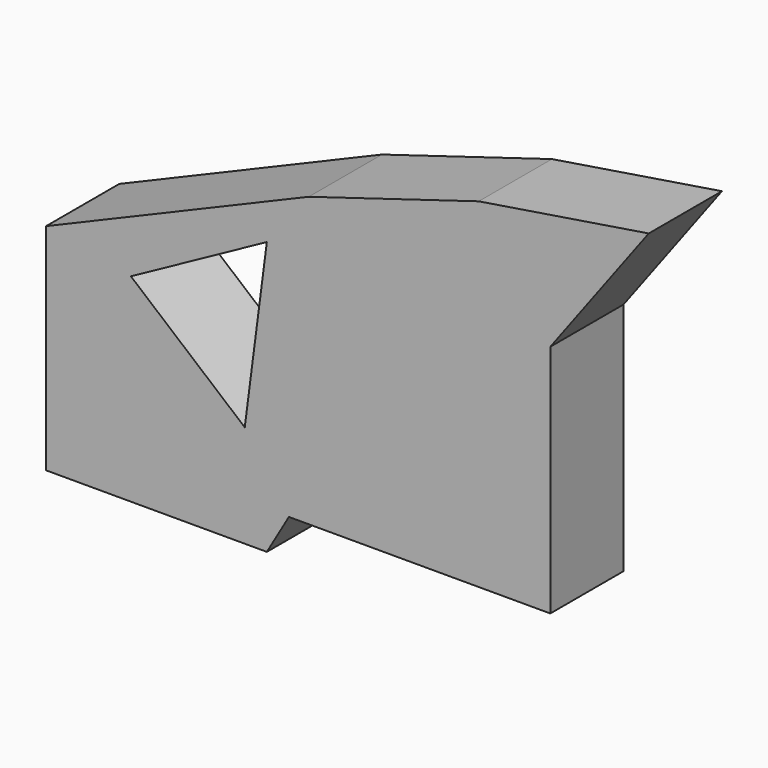
from build123d import *

# Parameters (mm, degrees)
F1_DEPTH = 25.4


with BuildPart() as f1:
    # F0 (on Front) → F1 (new body)
    with BuildSketch(Plane.XZ):
        Polygon((-88.257447, -59.687648), (-82.12845, -49.147233), (-134.837762, -49.147233), (-143.809088, -14.351459), (-125.996976, -4.606415), (-88.257447, 16.040962), (-76.612361, 30.896192), (-149.547338, 0), (-149.547338, -59.687648), align=None)
        Polygon((-134.837762, -49.147233), (-82.12845, -49.147233), (-9.55318, -49.147233), (-9.55318, 16.040962), (-88.257447, 16.040962), (-94.386436, -31.234344), (-125.996976, -4.606415), (-143.809088, -14.351459), align=None)
        Polygon((-88.257447, 16.040962), (-9.55318, 16.040962), (17.77407, 52.627109), (-29.419146, 45.1326), (-76.612361, 30.896192), align=None)
    extrude(amount=F1_DEPTH)


solid = f1.part
